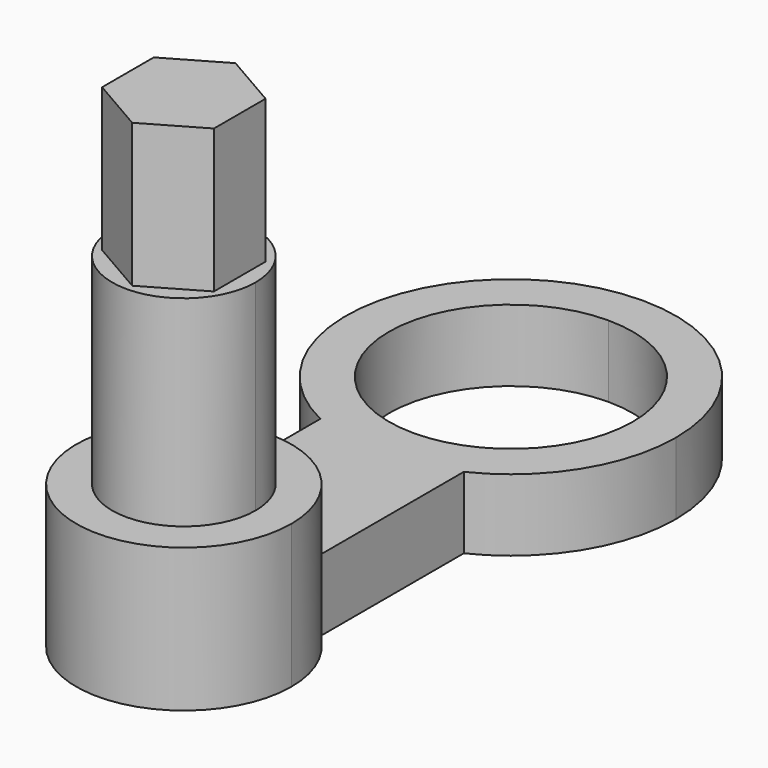
from build123d import *

# Parameters (mm, degrees)
F1_DEPTH = 5
F2_DEPTH = 10
F3_DEPTH = 24
F4_DEPTH = 34


with BuildPart() as f1:
    # F0 (on Top) → F1 (new body)
    with BuildSketch(Plane.XY):
        with BuildLine():
            ThreePointArc((0, 40), (-11.2103927734, 31.0645845405), (-5, 18.1438424114))
            Line((-5, 18.1438424114), (-5, 19.8613982648))
            Line((-5, 19.8613982648), (0, 19.8613982648))
            Line((0, 19.8613982648), (0, 20))
            ThreePointArc((0, 20), (-8.5, 28.5), (0, 37))
            Line((0, 37), (0, 40))
        make_face()
        with BuildLine():
            Line((5, 19.8613982648), (5, 18.1438424114))
            ThreePointArc((5, 18.1438424114), (9.7403798694, 22.3864903697), (11.5, 28.5))
            ThreePointArc((11.5, 28.5), (8.1317279836, 36.6317279836), (0, 40))
            Line((0, 40), (0, 37))
            ThreePointArc((0, 37), (6.0104076401, 34.5104076401), (8.5, 28.5))
            ThreePointArc((8.5, 28.5), (6.0104076401, 22.4895923599), (0, 20))
            Line((0, 20), (0, 19.8613982648))
            Line((0, 19.8613982648), (5, 19.8613982648))
        make_face()
        with BuildLine():
            ThreePointArc((0, 17), (2.5645845405, 17.2896072266), (5, 18.1438424114))
            Line((5, 18.1438424114), (5, 19.8613982648))
            Line((5, 19.8613982648), (0, 19.8613982648))
            Line((0, 19.8613982648), (0, 17))
        make_face()
        with BuildLine():
            Line((-5, 19.8613982648), (-5, 18.1438424114))
            ThreePointArc((-5, 18.1438424114), (-2.5645845405, 17.2896072266), (0, 17))
            Line((0, 17), (0, 19.8613982648))
            Line((0, 19.8613982648), (-5, 19.8613982648))
        make_face()
        with BuildLine():
            Line((-5, 18.1438424114), (-5, 5.5901699437))
            ThreePointArc((-5, 5.5901699437), (-2.6761656733, 7.0062926922), (0, 7.5))
            Line((0, 7.5), (0, 17))
            ThreePointArc((0, 17), (-2.5645845405, 17.2896072266), (-5, 18.1438424114))
        make_face()
        with BuildLine():
            ThreePointArc((0, 7.5), (2.6761656733, 7.0062926922), (5, 5.5901699437))
            Line((5, 5.5901699437), (5, 18.1438424114))
            ThreePointArc((5, 18.1438424114), (2.5645845405, 17.2896072266), (0, 17))
            Line((0, 17), (0, 7.5))
        make_face()
    extrude(amount=F1_DEPTH)

    # F0 (on Top) → F2 (join)
    with BuildSketch(Plane.XY):
        with BuildLine():
            Line((5, 0), (5, 5.5901699437))
            ThreePointArc((5, 5.5901699437), (2.6761656733, 7.0062926922), (0, 7.5))
            Line((0, 7.5), (0, 5))
            ThreePointArc((0, 5), (3.5355339059, 3.5355339059), (5, 0))
        make_face()
        with BuildLine():
            ThreePointArc((-5, 5.5901699437), (-3.0618621785, -6.8465319688), (7.5, 0))
            ThreePointArc((7.5, 0), (6.8465319688, 3.0618621785), (5, 5.5901699437))
            Line((5, 5.5901699437), (5, 0))
            ThreePointArc((5, 0), (0, -5), (-5, 0))
            Line((-5, 0), (-5, 5.5901699437))
        make_face()
        with BuildLine():
            ThreePointArc((0, 7.5), (-2.6761656733, 7.0062926922), (-5, 5.5901699437))
            Line((-5, 5.5901699437), (-5, 0))
            ThreePointArc((-5, 0), (-3.5355339059, 3.5355339059), (0, 5))
            Line((0, 5), (0, 7.5))
        make_face()
    extrude(amount=F2_DEPTH)

    # F0 (on Top) → F3 (join)
    with BuildSketch(Plane.XY):
        with BuildLine():
            Line((3.897114317, 0), (5, 0))
            ThreePointArc((5, 0), (3.5355339059, 3.5355339059), (0, 5))
            Line((0, 5), (0, 4.5))
            Line((0, 4.5), (3.897114317, 2.25))
            Line((3.897114317, 2.25), (3.897114317, 0))
        make_face()
        with BuildLine():
            ThreePointArc((-5, 0), (0, -5), (5, 0))
            Line((5, 0), (3.897114317, 0))
            Line((3.897114317, 0), (3.897114317, -2.25))
            Line((3.897114317, -2.25), (0, -4.5))
            Line((0, -4.5), (-3.897114317, -2.25))
            Line((-3.897114317, -2.25), (-3.897114317, 0))
            Line((-3.897114317, 0), (-5, 0))
        make_face()
        with BuildLine():
            ThreePointArc((0, 5), (-3.5355339059, 3.5355339059), (-5, 0))
            Line((-5, 0), (-3.897114317, 0))
            Line((-3.897114317, 0), (-3.897114317, 2.25))
            Line((-3.897114317, 2.25), (0, 4.5))
            Line((0, 4.5), (0, 5))
        make_face()
    extrude(amount=F3_DEPTH)

    # F0 (on Top) → F4 (join)
    with BuildSketch(Plane.XY):
        Polygon((3.897114317, 2.25), (0, 4.5), (0, 0), align=None)
        Polygon((0, 0), (3.897114317, 0), (3.897114317, 2.25), align=None)
        Polygon((3.897114317, -2.25), (3.897114317, 0), (0, 0), align=None)
        Polygon((3.897114317, -2.25), (0, 0), (0, -4.5), align=None)
        Polygon((0, -4.5), (0, 0), (-3.897114317, -2.25), align=None)
        Polygon((0, 0), (-3.897114317, 0), (-3.897114317, -2.25), align=None)
        Polygon((-3.897114317, 2.25), (-3.897114317, 0), (0, 0), align=None)
        Polygon((0, 0), (0, 4.5), (-3.897114317, 2.25), align=None)
    extrude(amount=F4_DEPTH)


solid = f1.part
